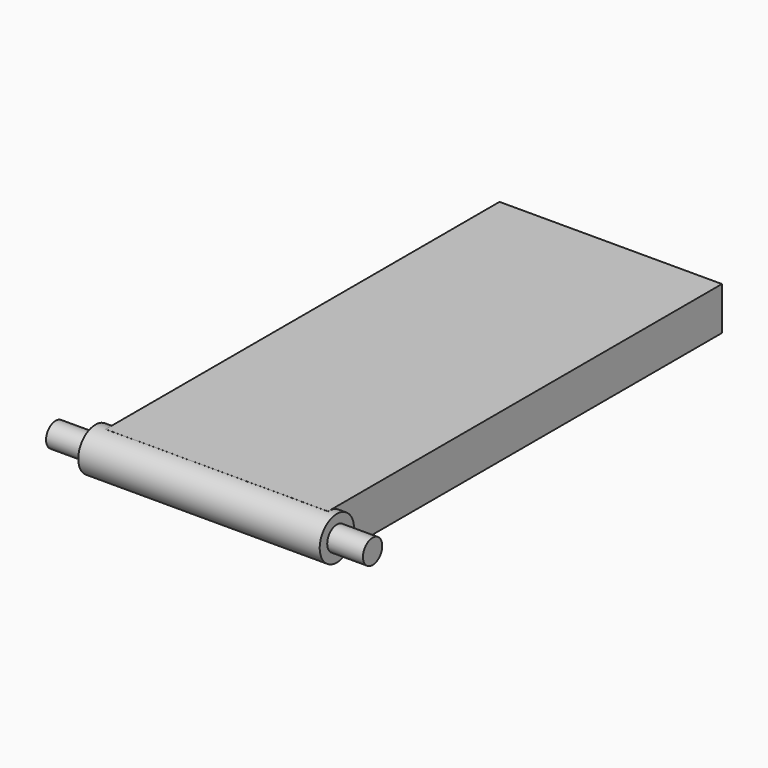
from build123d import *

# Parameters (mm, degrees)
F1_DEPTH  = 310
F0_W      = 34
F0_H      = 8
F2_DEPTH  = 250
F3_DEPTH  = 310
F0_W_2    = 25
F4_DEPTH  = 309.9
F5_R      = 13.5
F6_DEPTH  = 76
F7_R      = 7.5823100612
F8_DEPTH  = 325
F9_DEPTH  = 177
F10_DEPTH = 162.7
F11_DEPTH = 154.5


with BuildPart() as f1:
    # F0 (on Front) → F1 (new body)
    with BuildSketch(Plane.XZ):
        Polygon((70.9833226877, 8), (52.9833226877, 8), (52.9833226877, 0), (52.9833226877, -19.1598301306), (70.9833226877, -19.1598301306), (70.9833226877, 3.8401698694), align=None)
    extrude(amount=F1_DEPTH)



with BuildPart() as f1b:
    # F0 (on Front) → F1, piece 2 (new body)
    with BuildSketch(Plane.XZ):
        Polygon((-69.0166773123, -19.1598301306), (-51.0166773123, -19.1598301306), (-51.0166773123, 0), (-51.0166773123, 8), (-69.0166773123, 8), (-69.0166773123, 3.8401698694), align=None)
    extrude(amount=F1_DEPTH)


with BuildPart() as f2:
    # F0 (on Front) → F2 (new body)
    with BuildSketch(Plane.XZ):
        with Locations((0.9833226877, 4)):
            Rectangle(F0_W, F0_H)
    extrude(amount=F2_DEPTH)

    # F0 (on Front) → F3 (join)
    with BuildSketch(Plane.XZ):
        Polygon((-26.0166773123, 8), (-26.0166773123, 0), (-26.0166773123, -19.1598301306), (-16.0166773123, -19.1598301306), (-16.0166773123, 0), (-16.0166773123, 8), align=None)
        Polygon((27.9833226877, 8), (17.9833226877, 8), (17.9833226877, 0), (17.9833226877, -19.1598301306), (27.9833226877, -19.1598301306), (27.9833226877, 0), align=None)
    extrude(amount=F3_DEPTH)


with BuildPart() as f4:
    # F0 (on Front) → F4 (new body)
    with BuildSketch(Plane.XZ):
        with Locations((-38.5166773123, 4)):
            Rectangle(F0_W_2, F0_H)
    extrude(amount=F4_DEPTH)


with BuildPart() as f4b:
    # F0 (on Front) → F4, piece 2 (new body)
    with BuildSketch(Plane.XZ):
        with Locations((40.4833226877, 4)):
            Rectangle(F0_W_2, F0_H)
    extrude(amount=F4_DEPTH)


with BuildPart() as f4c:
    # F0 (on Front) → F4, piece 3 (new body)
    with BuildSketch(Plane.XZ):
        with Locations((0.9833226877, 4)):
            Rectangle(F0_W, F0_H)
    extrude(amount=F4_DEPTH)


with BuildPart() as f1_1:
    add(f1.part)

    add(f1b.part)  # F6 merges F1b

    add(f2.part)  # F6 merges F2

    add(f4.part)  # F6 merges F4

    add(f4b.part)  # F6 merges F4b

    add(f4c.part)  # F6 merges F4c
    # F5 (on Right) → F6 (join, symmetric)
    with BuildSketch(Plane.YZ):
        with Locations((-309.2783357923, -5.516671653)):
            Circle(F5_R)
    extrude(amount=F6_DEPTH, both=True)

    # F7 (on face) → F8 (cut)
    with BuildSketch(Plane.YZ.offset(76)):
        with Locations((-309.2783357923, -5.516671653)):
            Circle(F7_R)
    extrude(amount=-F8_DEPTH, mode=Mode.SUBTRACT)

    # F7 (on face) → F9 (join, symmetric)
    with BuildSketch(Plane.YZ.offset(76)):
        with Locations((-309.2783357923, -5.516671653)):
            Circle(F7_R)
    extrude(amount=F9_DEPTH, both=True)

    # F10 (add): a face of the model
    f10_faces = [f1_1.faces().sort_by_distance(p)[0] for p in [
        (253, -309.2783357923, -5.516671653),
    ]]
    extrude(f10_faces, amount=-F10_DEPTH)

    # F11 (cut): a face of the model
    f11_faces = [f1_1.faces().sort_by_distance(p)[0] for p in [
        (253, -309.2783357923, -5.516671653),
    ]]
    extrude(f11_faces, amount=-F11_DEPTH, mode=Mode.SUBTRACT)


solid = f1_1.part
